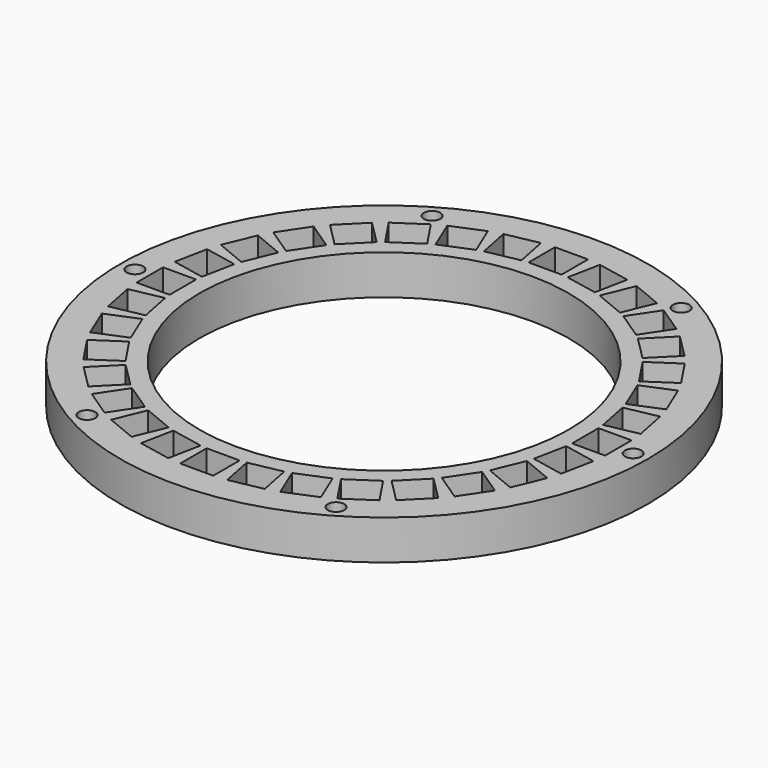
from build123d import *

# Parameters (mm, degrees)
F2_R     = 39.959511
F2_R_2   = 1.5
F2_R_3   = 1.25
F2_R_4   = 27.959511
F3_DEPTH = 6
F4_W     = 5
F4_H     = 5
F5_DEPTH = 6


with BuildPart() as f3:
    # F2 (on offset) → F3 (new body)
    with BuildSketch(Plane.XY.offset(-0.75)):
        Circle(F2_R)
        with Locations((-23.394282, -23.394282)):
            Circle(F2_R_2, mode=Mode.SUBTRACT)
        with Locations((-18.854756, -32.657395)):
            Circle(F2_R_3, mode=Mode.SUBTRACT)
        with Locations((-12.660894, -30.566103)):
            Circle(F2_R_2, mode=Mode.SUBTRACT)
        with Locations((-6.454468, -32.448802)):
            Circle(F2_R_2, mode=Mode.SUBTRACT)
        with Locations((-18.38077, -27.508766)):
            Circle(F2_R_2, mode=Mode.SUBTRACT)
        with Locations((-30.566103, -12.660894)):
            Circle(F2_R_2, mode=Mode.SUBTRACT)
        with Locations((-27.508766, -18.38077)):
            Circle(F2_R_2, mode=Mode.SUBTRACT)
        with Locations((-32.448802, -6.454468)):
            Circle(F2_R_2, mode=Mode.SUBTRACT)
        with Locations((0, -33.084511)):
            Circle(F2_R_2, mode=Mode.SUBTRACT)
        with Locations((6.454468, -32.448802)):
            Circle(F2_R_2, mode=Mode.SUBTRACT)
        with Locations((12.660894, -30.566103)):
            Circle(F2_R_2, mode=Mode.SUBTRACT)
        with Locations((18.854756, -32.657395)):
            Circle(F2_R_3, mode=Mode.SUBTRACT)
        with Locations((18.38077, -27.508766)):
            Circle(F2_R_2, mode=Mode.SUBTRACT)
        with Locations((23.394282, -23.394282)):
            Circle(F2_R_2, mode=Mode.SUBTRACT)
        with Locations((27.508766, -18.38077)):
            Circle(F2_R_2, mode=Mode.SUBTRACT)
        with Locations((30.566103, -12.660894)):
            Circle(F2_R_2, mode=Mode.SUBTRACT)
        with Locations((32.448802, -6.454468)):
            Circle(F2_R_2, mode=Mode.SUBTRACT)
        with Locations((-37.709511, 0)):
            Circle(F2_R_3, mode=Mode.SUBTRACT)
        with Locations((-33.084511, 0)):
            Circle(F2_R_2, mode=Mode.SUBTRACT)
        with Locations((-32.448802, 6.454468)):
            Circle(F2_R_2, mode=Mode.SUBTRACT)
        with Locations((-30.566103, 12.660894)):
            Circle(F2_R_2, mode=Mode.SUBTRACT)
        with Locations((-27.508766, 18.38077)):
            Circle(F2_R_2, mode=Mode.SUBTRACT)
        with Locations((-23.394282, 23.394282)):
            Circle(F2_R_2, mode=Mode.SUBTRACT)
        with Locations((-18.38077, 27.508766)):
            Circle(F2_R_2, mode=Mode.SUBTRACT)
        with Locations((-18.854756, 32.657395)):
            Circle(F2_R_3, mode=Mode.SUBTRACT)
        with Locations((-12.660894, 30.566103)):
            Circle(F2_R_2, mode=Mode.SUBTRACT)
        with Locations((-6.454468, 32.448802)):
            Circle(F2_R_2, mode=Mode.SUBTRACT)
        Circle(F2_R_4, mode=Mode.SUBTRACT)
        with Locations((32.959511, 0)):
            Circle(F2_R_2, mode=Mode.SUBTRACT)
        with Locations((37.709511, 0)):
            Circle(F2_R_3, mode=Mode.SUBTRACT)
        with Locations((32.448802, 6.454468)):
            Circle(F2_R_2, mode=Mode.SUBTRACT)
        with Locations((27.508766, 18.38077)):
            Circle(F2_R_2, mode=Mode.SUBTRACT)
        with Locations((30.566103, 12.660894)):
            Circle(F2_R_2, mode=Mode.SUBTRACT)
        with Locations((18.38077, 27.508766)):
            Circle(F2_R_2, mode=Mode.SUBTRACT)
        with Locations((0, 33.084511)):
            Circle(F2_R_2, mode=Mode.SUBTRACT)
        with Locations((6.454468, 32.448802)):
            Circle(F2_R_2, mode=Mode.SUBTRACT)
        with Locations((12.660894, 30.566103)):
            Circle(F2_R_2, mode=Mode.SUBTRACT)
        with Locations((18.854756, 32.657395)):
            Circle(F2_R_3, mode=Mode.SUBTRACT)
        with Locations((23.394282, 23.394282)):
            Circle(F2_R_2, mode=Mode.SUBTRACT)
    extrude(amount=F3_DEPTH)

    # F4 (on Top) → F5 (cut)
    with BuildSketch(Plane.XY):
        with Locations((32.959511, 0)):
            Rectangle(F4_W, F4_H)
        Polygon((34.290441, 9.369771), (29.386514, 8.394319), (30.361966, 3.490393), (35.265892, 4.465844), align=None)
        Polygon((31.803608, 15.879466), (27.18421, 13.966049), (29.097628, 9.346651), (33.717025, 11.260069), align=None)
        Polygon((28.09458, 21.778923), (23.937232, 19.001072), (26.715084, 14.843724), (30.872432, 17.621575), align=None)
        Polygon((23.305894, 26.841428), (19.77036, 23.305894), (23.305894, 19.77036), (26.841428, 23.305894), align=None)
        Polygon((17.621575, 30.872432), (14.843724, 26.715084), (19.001072, 23.937232), (21.778923, 28.09458), align=None)
        Polygon((11.260069, 33.717025), (9.346651, 29.097628), (13.966049, 27.18421), (15.879466, 31.803608), align=None)
        Polygon((4.465844, 35.265892), (3.490393, 30.361966), (8.394319, 29.386514), (9.369771, 34.290441), align=None)
        with Locations((0, 32.959511)):
            Rectangle(F4_W, F4_H)
        Polygon((-9.369771, 34.290441), (-8.394319, 29.386514), (-3.490393, 30.361966), (-4.465844, 35.265892), align=None)
        Polygon((-15.879466, 31.803608), (-13.966049, 27.18421), (-9.346651, 29.097628), (-11.260069, 33.717025), align=None)
        Polygon((-21.778923, 28.09458), (-19.001072, 23.937232), (-14.843724, 26.715084), (-17.621575, 30.872432), align=None)
        Polygon((-26.841428, 23.305894), (-23.305894, 19.77036), (-19.77036, 23.305894), (-23.305894, 26.841428), align=None)
        Polygon((-30.872432, 17.621575), (-26.715084, 14.843724), (-23.937232, 19.001072), (-28.09458, 21.778923), align=None)
        Polygon((-33.717025, 11.260069), (-29.097628, 9.346651), (-27.18421, 13.966049), (-31.803608, 15.879466), align=None)
        Polygon((-35.265892, 4.465844), (-30.361966, 3.490393), (-29.386514, 8.394319), (-34.290441, 9.369771), align=None)
        with Locations((-32.959511, 0)):
            Rectangle(F4_W, F4_H)
        Polygon((-34.290441, -9.369771), (-29.386514, -8.394319), (-30.361966, -3.490393), (-35.265892, -4.465844), align=None)
        Polygon((-31.803608, -15.879466), (-27.18421, -13.966049), (-29.097628, -9.346651), (-33.717025, -11.260069), align=None)
        Polygon((-28.09458, -21.778923), (-23.937232, -19.001072), (-26.715084, -14.843724), (-30.872432, -17.621575), align=None)
        Polygon((-23.305894, -26.841428), (-19.77036, -23.305894), (-23.305894, -19.77036), (-26.841428, -23.305894), align=None)
        Polygon((-17.621575, -30.872432), (-14.843724, -26.715084), (-19.001072, -23.937232), (-21.778923, -28.09458), align=None)
        Polygon((-11.260069, -33.717025), (-9.346651, -29.097628), (-13.966049, -27.18421), (-15.879466, -31.803608), align=None)
        Polygon((-4.465844, -35.265892), (-3.490393, -30.361966), (-8.394319, -29.386514), (-9.369771, -34.290441), align=None)
        with Locations((0, -32.959511)):
            Rectangle(F4_W, F4_H)
        Polygon((9.369771, -34.290441), (8.394319, -29.386514), (3.490393, -30.361966), (4.465844, -35.265892), align=None)
        Polygon((15.879466, -31.803608), (13.966049, -27.18421), (9.346651, -29.097628), (11.260069, -33.717025), align=None)
        Polygon((21.778923, -28.09458), (19.001072, -23.937232), (14.843724, -26.715084), (17.621575, -30.872432), align=None)
        Polygon((26.841428, -23.305894), (23.305894, -19.77036), (19.77036, -23.305894), (23.305894, -26.841428), align=None)
        Polygon((30.872432, -17.621575), (26.715084, -14.843724), (23.937232, -19.001072), (28.09458, -21.778923), align=None)
        Polygon((33.717025, -11.260069), (29.097628, -9.346651), (27.18421, -13.966049), (31.803608, -15.879466), align=None)
        Polygon((35.265892, -4.465844), (30.361966, -3.490393), (29.386514, -8.394319), (34.290441, -9.369771), align=None)
    extrude(amount=F5_DEPTH, mode=Mode.SUBTRACT)


solid = f3.part
